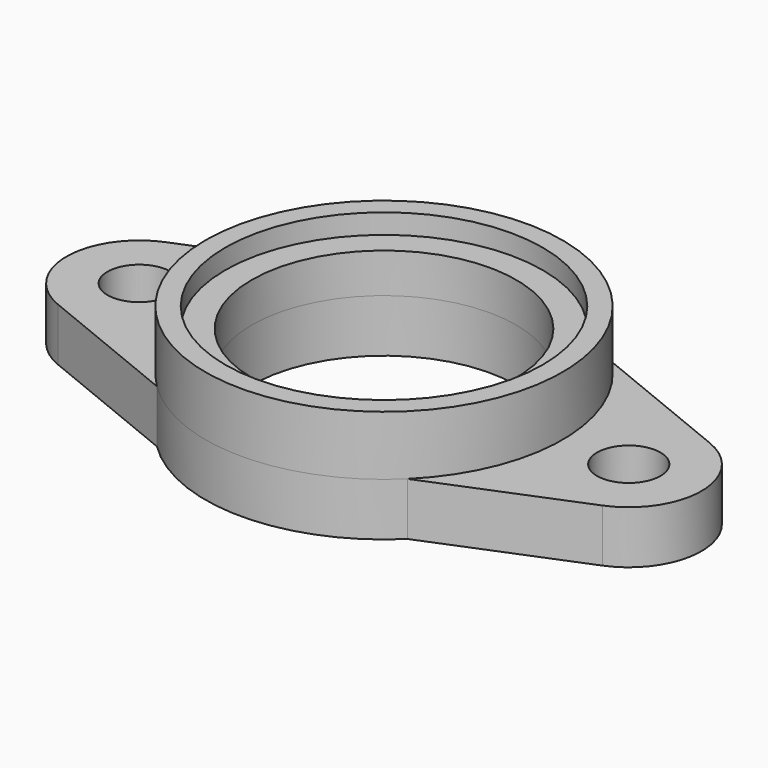
from build123d import *

# Parameters (mm, degrees)
F1_R     = 2.4
F1_R_2   = 10
F2_DEPTH = 4


with BuildPart() as f2:
    # F1 (on Top) → F2 (new body)
    with BuildSketch(Plane.XY):
        with BuildLine():
            Line((-20.57735134, -5.0926035984), (-9.4662162162, -9.625006522))
            ThreePointArc((-9.4662162162, -9.625006522), (0, -13.5), (9.4662162162, -9.625006522))
            Line((9.4662162162, -9.625006522), (20.57735134, -5.0926035984))
            ThreePointArc((20.57735134, -5.0926035984), (24, 0), (20.57735134, 5.0926035984))
            Line((20.57735134, 5.0926035984), (9.4662162162, 9.625006522))
            ThreePointArc((9.4662162162, 9.625006522), (0, 13.5), (-9.4662162162, 9.625006522))
            Line((-9.4662162162, 9.625006522), (-20.57735134, 5.0926035984))
            ThreePointArc((-20.57735134, 5.0926035984), (-24, 0), (-20.57735134, -5.0926035984))
        make_face()
        with Locations((-18.5, 0)):
            Circle(F1_R, mode=Mode.SUBTRACT)
        Circle(F1_R_2, mode=Mode.SUBTRACT)
        with Locations((18.5, 0)):
            Circle(F1_R, mode=Mode.SUBTRACT)
    extrude(amount=F2_DEPTH)

    # F3 (on Front) → F4 (revolve)
    with BuildSketch(Plane.XZ):
        Polygon((-13.5, 8.5), (-13.5, 4), (-10, 4), (-10, 7), (-12, 7), (-12, 8.5), align=None)
    revolve(axis=Axis((0, 0, 12.0315), (0, 0, 1)))


solid = f2.part
